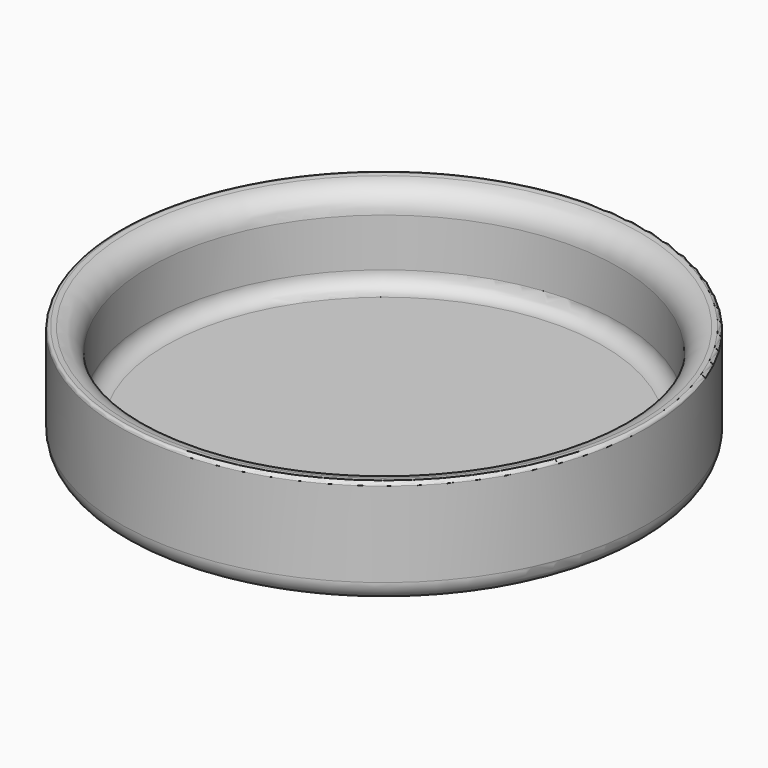
from build123d import *


with BuildPart() as f1:
    # F0 (on Front) → F1 (revolve)
    with BuildSketch(Plane.XZ):
        with BuildLine():
            Line((0, 3.175), (0, 0))
            Line((0, 0), (39.243, 0))
            ThreePointArc((39.243, 0), (41.488064, 0.929936), (42.418, 3.175))
            Line((42.418, 3.175), (42.418, 16.833121))
            ThreePointArc((42.418, 16.833121), (42.249357, 17.211143), (41.855399, 17.338178))
            Line((41.855399, 17.338178), (41.119494, 17.258621))
            ThreePointArc((41.119494, 17.258621), (38.693835, 16.015872), (37.719, 13.470692))
            Line((37.719, 13.470692), (37.719, 5.715))
            ThreePointArc((37.719, 5.715), (36.975051, 3.918949), (35.179, 3.175))
            Line((35.179, 3.175), (0, 3.175))
        make_face()
    revolve(axis=Axis((0, 0, 1.5875), (0, 0, 1)))


solid = f1.part
